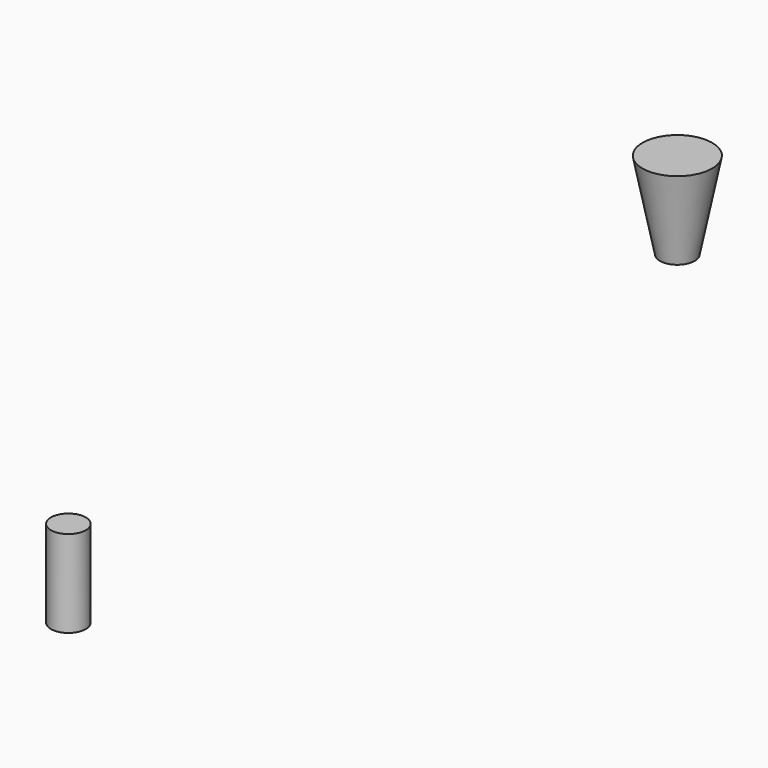
from build123d import *

# Parameters (mm, degrees)
CONE_PLACEMENT_ANGLE     = 1.303
CYLINDER_R               = 2
CYLINDER_DEPTH           = 10
CYLINDER_PLACEMENT_ANGLE = 0.329684


with BuildPart() as cone:
    # Cone → Cone (revolve)
    with BuildSketch(Plane.XZ):
        Polygon((0, 0), (2, 0), (4, 10), (0, 10), align=None)
    revolve(axis=Axis((0, 0, 0), (0, 0, 1)))


with BuildPart() as cone_1:
    # Cone placement: moved
    add(cone.part.moved(Location((-37.696372, 328.079839, 0))).rotate(Axis((-37.696372, 328.079839, 0), (0, 0, 1)), CONE_PLACEMENT_ANGLE))


with BuildPart() as cylinder:
    # Cylinder → Cylinder (new body)
    with BuildSketch(Plane.XY):
        Circle(CYLINDER_R)
    extrude(amount=CYLINDER_DEPTH)


with BuildPart() as cylinder_1:
    # Cylinder placement: moved
    add(cylinder.part.moved(Location((-35.671973, 238.125144, 0))).rotate(Axis((-35.671973, 238.125144, 0), (0, 0, 1)), CYLINDER_PLACEMENT_ANGLE))


solid = Compound([cone_1.part, cylinder_1.part])
